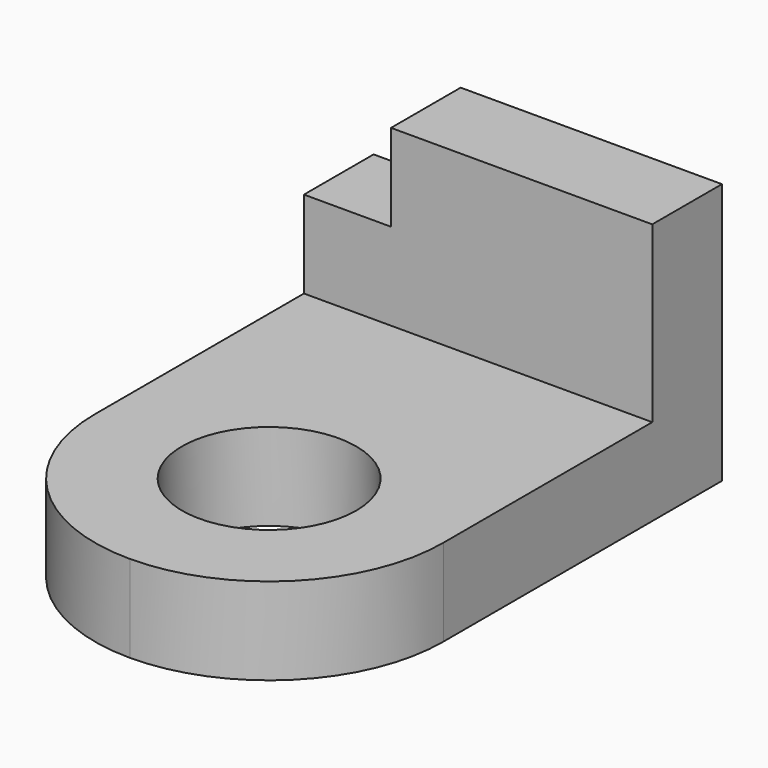
from build123d import *

# Parameters (mm, degrees)
F0_W     = 50.8
F0_H     = 76.2
F1_DEPTH = 12.7
F2_W     = 50.8
F2_H     = 12.7
F3_DEPTH = 25.4
F4_W     = 12.7
F4_H     = 12.7
F5_DEPTH = 12.7
F6_R     = 12.7
F7_DEPTH = 12.701


with BuildPart() as f1:
    # F0 (on Top) → F1 (new body)
    with BuildSketch(Plane.XY):
        Rectangle(F0_W, F0_H)
    extrude(amount=F1_DEPTH)

    # F2 (on face) → F3 (join)
    with BuildSketch(Plane.XY.offset(12.7)):
        with Locations((0, 31.75)):
            Rectangle(F2_W, F2_H)
    extrude(amount=F3_DEPTH)

    # F4 (on face) → F5 (cut)
    with BuildSketch(Plane.XY.offset(38.1)):
        with Locations((-19.05, 31.75)):
            Rectangle(F4_W, F4_H)
    extrude(amount=-F5_DEPTH, mode=Mode.SUBTRACT)

    # F6 (on face) → F7 (cut, through all)
    with BuildSketch(Plane.XY.offset(12.7)):
        with Locations((0, -12.7)):
            Circle(F6_R)
        with BuildLine():
            ThreePointArc((-2.54e-08, -38.1), (-17.9605122511, -30.6605122332), (-25.4, -12.7))
            Line((-25.4, -12.7), (-25.4, -38.1))
            Line((-25.4, -38.1), (-2.54e-08, -38.1))
        make_face()
        with BuildLine():
            ThreePointArc((25.4, -12.7), (17.9605122332, -30.6605122511), (-2.54e-08, -38.1))
            Line((-2.54e-08, -38.1), (25.4, -38.1))
            Line((25.4, -38.1), (25.4, -12.7))
        make_face()
    extrude(amount=-F7_DEPTH, mode=Mode.SUBTRACT)


solid = f1.part
